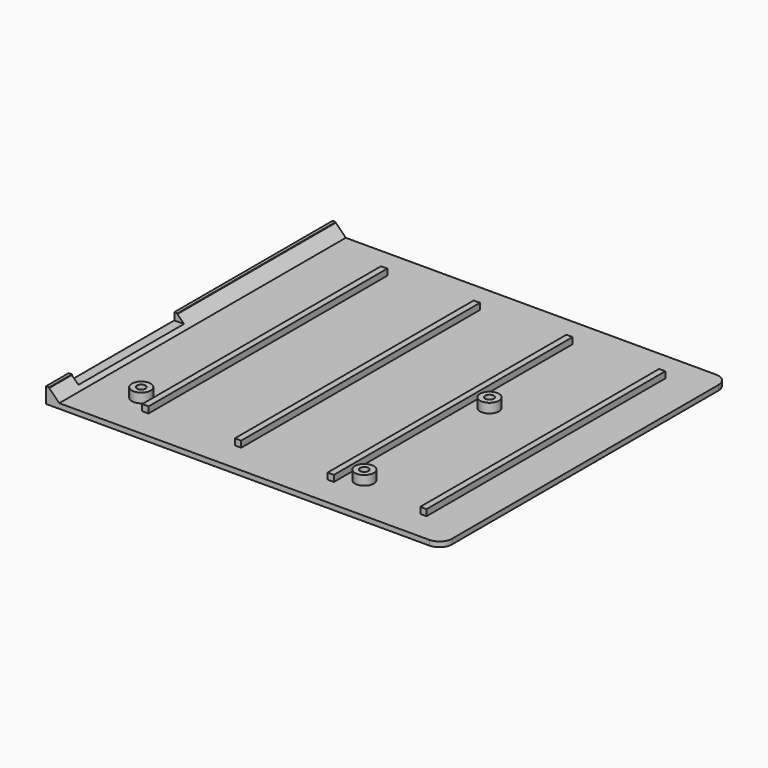
from build123d import *

# Parameters (mm, degrees)
SKETCH_R      = 1.35
PAD_DEPTH     = 1.6
SKETCH001_R   = 3
SKETCH001_R_2 = 1.35
PAD001_DEPTH  = 3
SKETCH002_W   = 2
SKETCH002_H   = 95
PAD002_DEPTH  = 2
SKETCH003_W   = 114
SKETCH003_H   = 5
PAD003_DEPTH  = 1
CHAMFER_SIZE  = 3.19
SKETCH004_W   = 42
SKETCH004_H   = 2.3
POCKET_DEPTH  = 5


with BuildPart() as part:
    # Sketch → Pad (new body)
    with BuildSketch(Plane.XY):
        with BuildLine():
            Line((0, 0), (121, 0))
            ThreePointArc((121, 0), (123.828427, 1.171573), (125, 4))
            Line((125, 4), (125, 110))
            ThreePointArc((125, 110), (123.828427, 112.828427), (121, 114))
            Line((121, 114), (0, 114))
            Line((0, 114), (0, 0))
        make_face()
        with Locations((17.3, 15)):
            Circle(SKETCH_R, mode=Mode.SUBTRACT)
        with Locations((88.3, 64.8)):
            Circle(SKETCH_R, mode=Mode.SUBTRACT)
        with Locations((88.3, 15)):
            Circle(SKETCH_R, mode=Mode.SUBTRACT)
    extrude(amount=PAD_DEPTH)

    # Sketch001 (on Face11 of Pad) → Pad001 (join)
    with BuildSketch(Plane.XY.offset(1.6)):
        with Locations((88.3, 15)):
            Circle(SKETCH001_R)
        with Locations((88.3, 15)):
            Circle(SKETCH001_R_2, mode=Mode.SUBTRACT)
        with Locations((88.3, 64.8)):
            Circle(SKETCH001_R)
        with Locations((88.3, 64.8)):
            Circle(SKETCH001_R_2, mode=Mode.SUBTRACT)
        with Locations((17.3, 15)):
            Circle(SKETCH001_R)
        with Locations((17.3, 15)):
            Circle(SKETCH001_R_2, mode=Mode.SUBTRACT)
    extrude(amount=PAD001_DEPTH)

    # Sketch002 (on Face5 of Pad001) → Pad002 (join)
    with BuildSketch(Plane.XY.offset(1.6)):
        with Locations((23, 57)):
            Rectangle(SKETCH002_W, SKETCH002_H)
        with Locations((52.5, 57)):
            Rectangle(SKETCH002_W, SKETCH002_H)
        with Locations((82, 57)):
            Rectangle(SKETCH002_W, SKETCH002_H)
        with Locations((111.5, 57)):
            Rectangle(SKETCH002_W, SKETCH002_H)
    extrude(amount=PAD002_DEPTH)

    # Sketch003 (on Face2 of Pad002) → Pad003 (join)
    with BuildSketch(Plane(origin=(0, 0, 0), x_dir=(0, -1, 0), z_dir=(-1, 0, 0))):
        with Locations((-57, 2.5)):
            Rectangle(SKETCH003_W, SKETCH003_H)
    extrude(amount=PAD003_DEPTH)

    # Chamfer
    chamfer_edges = [part.edges().sort_by_distance(p)[0] for p in [
        (0, 57, 1.6),
    ]]
    chamfer(chamfer_edges, length=CHAMFER_SIZE)

    # Sketch004 (on Face31 of Chamfer) → Pocket (cut)
    with BuildSketch(Plane(origin=(-1, 0, 0), x_dir=(0, -1, 0), z_dir=(-1, 0, 0))):
        with Locations((-30, 3.85)):
            Rectangle(SKETCH004_W, SKETCH004_H)
    extrude(amount=-POCKET_DEPTH, mode=Mode.SUBTRACT)


solid = part.part
